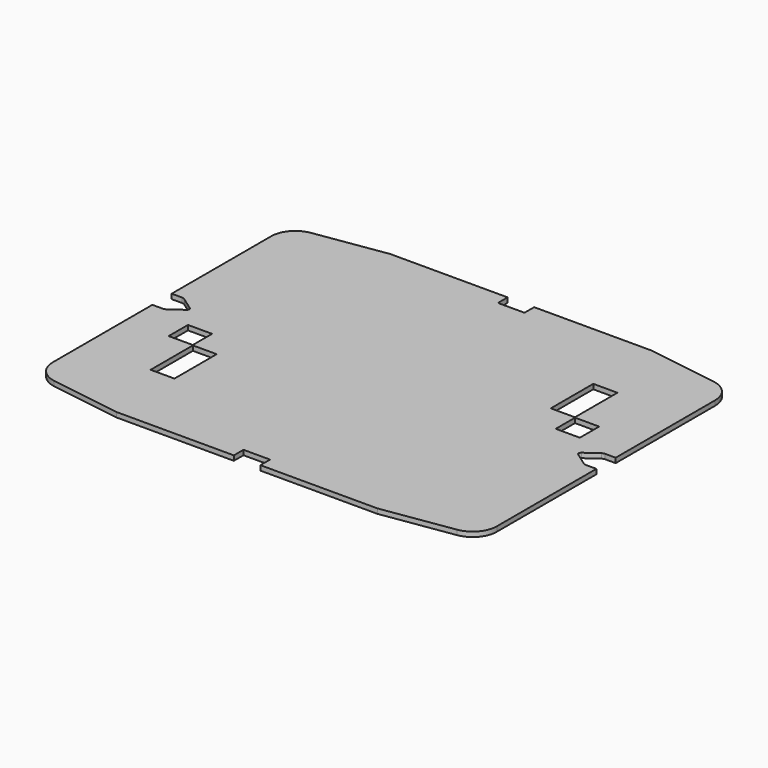
from build123d import *

# Parameters (mm, degrees)
F0_W     = 4.935211
F0_H     = 10.95
F0_W_2   = 5
F0_H_2   = 5
F0_H_3   = 11
F1_DEPTH = 1


with BuildPart() as f1:
    # F0 (on Top) → F1 (new body)
    with BuildSketch(Plane.XY):
        with BuildLine():
            ThreePointArc((41.749027, -33.215299), (44.791117, -31.531696), (46, -28.271721))
            Line((46, -28.271721), (46, -2.5))
            Line((46, -2.5), (43.820465, -2.5))
            ThreePointArc((43.820465, -2.5), (43.515288, -2.452296), (43.239227, -2.313733))
            Line((43.239227, -2.313733), (40.569613, -0.406867))
            ThreePointArc((40.569613, -0.406867), (40.360233, 0), (40.569613, 0.406867))
            Line((40.569613, 0.406867), (43.239227, 2.313733))
            ThreePointArc((43.239227, 2.313733), (43.515288, 2.452296), (43.820465, 2.5))
            Line((43.820465, 2.5), (46, 2.5))
            Line((46, 2.5), (46, 28.271721))
            ThreePointArc((46, 28.271721), (44.791117, 31.531696), (41.749027, 33.215299))
            Line((41.749027, 33.215299), (27, 35.45))
            Line((27, 35.45), (2.75, 35.45))
            Line((2.75, 35.45), (2.75, 32.95))
            Line((2.75, 32.95), (0, 32.95))
            Line((0, 32.95), (-2.75, 32.95))
            Line((-2.75, 32.95), (-2.75, 35.45))
            Line((-2.75, 35.45), (-27.064789, 35.45))
            Line((-27.064789, 35.45), (-41.751913, 33.215906))
            ThreePointArc((-41.751913, 33.215906), (-44.792068, 31.531634), (-46, 28.272766))
            Line((-46, 28.272766), (-46, 2.5))
            Line((-46, 2.5), (-43.820465, 2.5))
            ThreePointArc((-43.820465, 2.5), (-43.515288, 2.452296), (-43.239227, 2.313733))
            Line((-43.239227, 2.313733), (-40.569613, 0.406867))
            ThreePointArc((-40.569613, 0.406867), (-40.360233, 0), (-40.569613, -0.406867))
            Line((-40.569613, -0.406867), (-43.239227, -2.313733))
            ThreePointArc((-43.239227, -2.313733), (-43.515288, -2.452296), (-43.820465, -2.5))
            Line((-43.820465, -2.5), (-46, -2.5))
            Line((-46, -2.5), (-46, -28.272766))
            ThreePointArc((-46, -28.272766), (-44.792068, -31.531634), (-41.751913, -33.215906))
            Line((-41.751913, -33.215906), (-27.064789, -35.45))
            Line((-27.064789, -35.45), (-2.75, -35.45))
            Line((-2.75, -35.45), (-2.75, -32.95))
            Line((-2.75, -32.95), (0, -32.95))
            Line((0, -32.95), (2.75, -32.95))
            Line((2.75, -32.95), (2.75, -35.45))
            Line((2.75, -35.45), (27, -35.45))
            Line((27, -35.45), (41.749027, -33.215299))
        make_face()
        with Locations((-29.532394, -14.975)):
            Rectangle(F0_W, F0_H, mode=Mode.SUBTRACT)
        with Locations((-34.6, -6.9)):
            Rectangle(F0_W_2, F0_H_2, mode=Mode.SUBTRACT)
        with Locations((34.6, 6.85)):
            Rectangle(F0_W_2, F0_H_2, mode=Mode.SUBTRACT)
        with Locations((29.5, 14.95)):
            Rectangle(F0_W_2, F0_H_3, mode=Mode.SUBTRACT)
    extrude(amount=F1_DEPTH)


solid = f1.part
